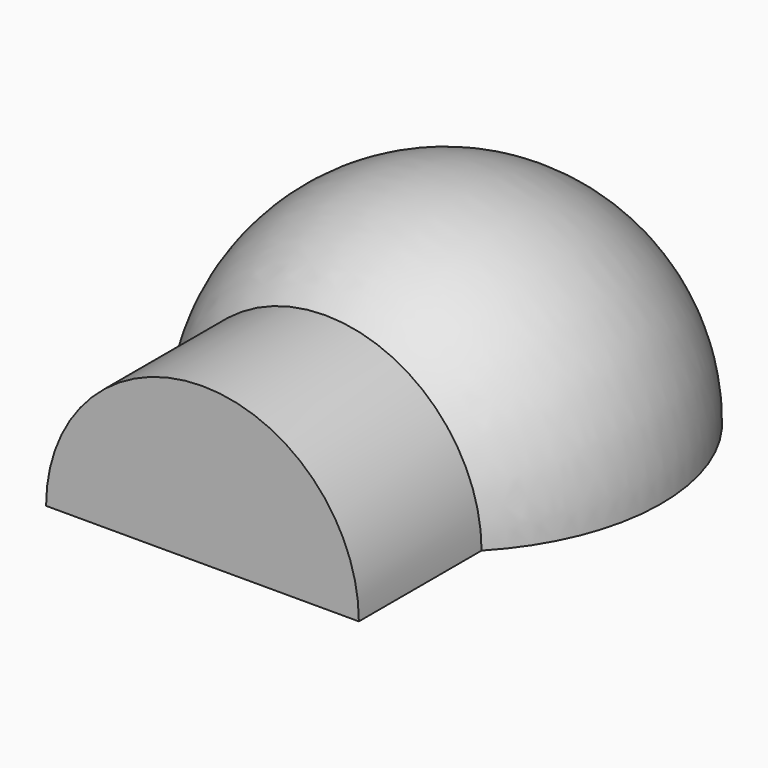
from build123d import *

# Parameters (mm, degrees)
F1_ANGLE = 180


with BuildPart() as f1:
    # F0 (on Top) → F1 (revolve)
    with BuildSketch(Plane.XY):
        with BuildLine():
            ThreePointArc((0, 381), (381, 0), (0, -381))
            Line((0, -381), (240.03, -381))
            Line((240.03, -381), (240.03, -584.2))
            Line((240.03, -584.2), (0, -584.2))
            Line((0, -584.2), (0, -711.2))
            Line((0, -711.2), (367.03, -711.2))
            Line((367.03, -711.2), (367.03, -351.216428))
            ThreePointArc((367.03, -351.216428), (467.162683, 199.557078), (0, 508))
            Line((0, 508), (0, 381))
        make_face()
    revolve(axis=Axis((0, 0, 0), (0, -1, 0)), revolution_arc=F1_ANGLE)


solid = f1.part
